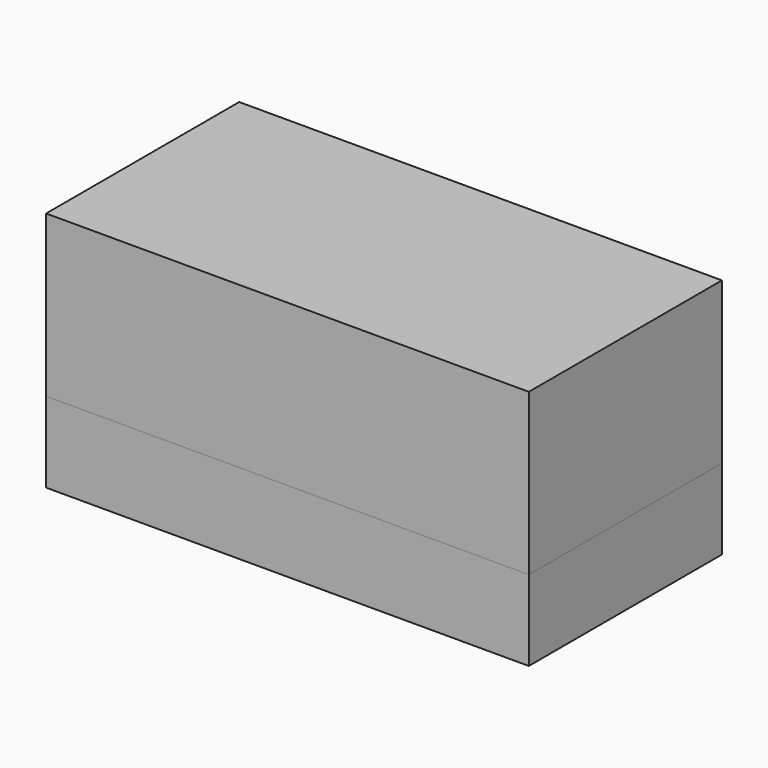
from build123d import *

# Parameters (mm, degrees)
F0_W     = 152.4
F0_H     = 76.2
F1_DEPTH = 76.2
F2_T     = -6.35
F3_W     = 152.4
F3_H     = 76.2
F4_DEPTH = 25.4


with BuildPart() as f1:
    # F0 (on Top) → F1 (new body)
    with BuildSketch(Plane.XY):
        Rectangle(F0_W, F0_H)
    extrude(amount=F1_DEPTH)

    # F2
    f2_openings = [f1.faces().sort_by_distance(p)[0] for p in [
        (0, 0, 0),
    ]]
    offset(amount=F2_T, openings=f2_openings)


with BuildPart() as f4:
    # F3 (on Top) → F4 (new body)
    with BuildSketch(Plane.XY):
        Rectangle(F3_W, F3_H)
    extrude(amount=F4_DEPTH)


solid = Compound([f1.part, f4.part])
